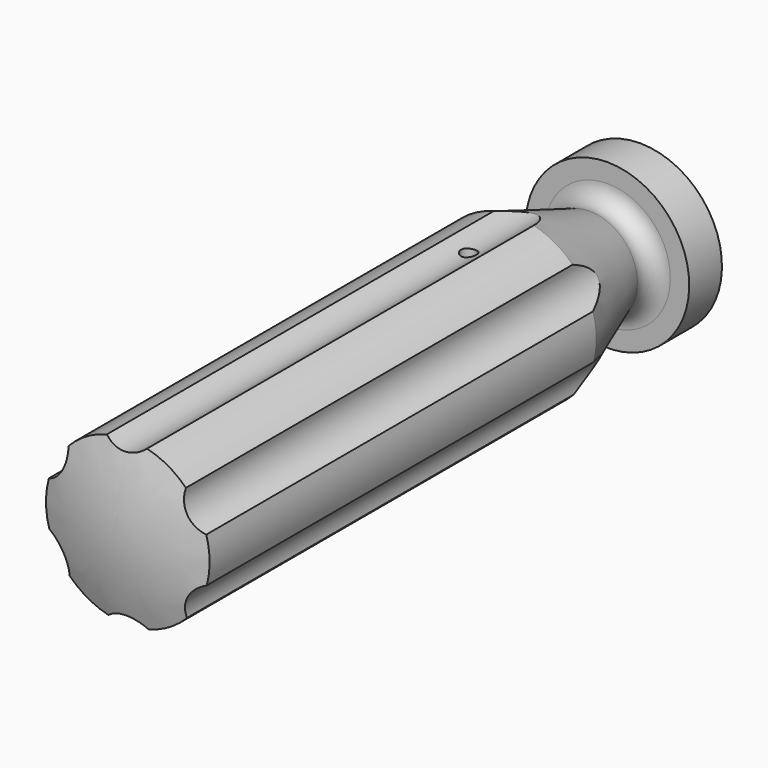
from build123d import *

# Parameters (mm, degrees)
F3_START = 7.62
F2_R     = 4.826
F3_DEPTH = 93.981
F4_R     = 1.1938
F5_DEPTH = 12.7


with BuildPart() as f1:
    # F0 (on Right) → F1 (revolve)
    with BuildSketch(Plane.YZ):
        with BuildLine():
            Line((-40.64, 3.175), (0, 3.175))
            Line((0, 3.175), (0, 12.7))
            Line((0, 12.7), (-6.35, 12.7))
            Line((-6.35, 12.7), (-6.35, 9.7636567324))
            ThreePointArc((-6.35, 9.7636567324), (-7.4331158517, 7.6830105399), (-9.758731164, 7.3768374756))
            Line((-9.758731164, 7.3768374756), (-24.384, 12.7))
            Line((-24.384, 12.7), (-99.4210244843, 12.7))
            ThreePointArc((-99.4210244843, 12.7), (-101.0513051228, 6.4427853895), (-101.6, 0))
            Line((-101.6, 0), (-40.64, 0))
            Line((-40.64, 0), (-40.64, 3.175))
        make_face()
    revolve(axis=Axis((0, -71.12, 0), (0, -1, 0)))

    # F2 (on Front) → F3 (cut)
    with BuildSketch(Plane.XZ.offset(F3_START)):
        with Locations((-0.1624401561, 16.0011754942)):
            Circle(F2_R)
        with Locations((13.7762043903, 8.1412650489)):
            Circle(F2_R)
        with Locations((13.9386445464, -7.8599104453)):
            Circle(F2_R)
        with Locations((0.1624401561, -16.0011754942)):
            Circle(F2_R)
        with Locations((-13.7762043903, -8.1412650489)):
            Circle(F2_R)
        with Locations((-13.9386445464, 7.8599104453)):
            Circle(F2_R)
    extrude(amount=F3_DEPTH, mode=Mode.SUBTRACT)

    # F4 (on Top) → F5 (cut, symmetric)
    with BuildSketch(Plane.XY):
        with Locations((0, -33.274)):
            Circle(F4_R)
    extrude(amount=F5_DEPTH, both=True, mode=Mode.SUBTRACT)


solid = f1.part
